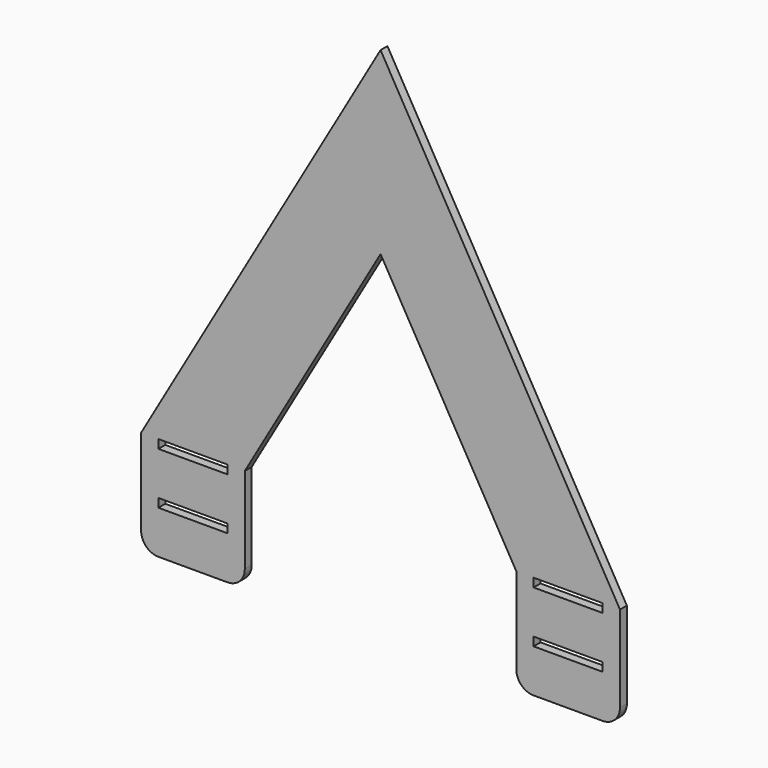
from build123d import *

# Parameters (mm, degrees)
F0_W     = 25.4
F0_H     = 3.175
F1_DEPTH = 3.175


with BuildPart() as f1:
    # F0 (on Front) → F1 (new body)
    with BuildSketch(Plane.XZ):
        with BuildLine():
            Line((-49.888181, -86.408864), (0, 0))
            Line((0, 0), (49.888181, -86.408864))
            Line((49.888181, -86.408864), (49.888181, -105.458864))
            Line((49.888181, -105.458864), (49.888181, -118.158864))
            ThreePointArc((49.888181, -118.158864), (51.748053, -122.648992), (56.238181, -124.508864))
            Line((56.238181, -124.508864), (81.638181, -124.508864))
            ThreePointArc((81.638181, -124.508864), (86.128309, -122.648992), (87.988181, -118.158864))
            Line((87.988181, -118.158864), (87.988181, -105.458864))
            Line((87.988181, -105.458864), (87.988181, -86.408864))
            Line((87.988181, -86.408864), (0, 65.991136))
            Line((0, 65.991136), (-87.988181, -86.408864))
            Line((-87.988181, -86.408864), (-87.988181, -105.458864))
            Line((-87.988181, -105.458864), (-87.988181, -118.158864))
            ThreePointArc((-87.988181, -118.158864), (-86.128309, -122.648992), (-81.638181, -124.508864))
            Line((-81.638181, -124.508864), (-56.238181, -124.508864))
            ThreePointArc((-56.238181, -124.508864), (-51.748053, -122.648992), (-49.888181, -118.158864))
            Line((-49.888181, -118.158864), (-49.888181, -105.458864))
            Line((-49.888181, -105.458864), (-49.888181, -86.408864))
        make_face()
        with Locations((-68.938181, -107.046364)):
            Rectangle(F0_W, F0_H, mode=Mode.SUBTRACT)
        with Locations((-68.938181, -87.996364)):
            Rectangle(F0_W, F0_H, mode=Mode.SUBTRACT)
        with Locations((68.938181, -107.046364)):
            Rectangle(F0_W, F0_H, mode=Mode.SUBTRACT)
        with Locations((68.938181, -87.996364)):
            Rectangle(F0_W, F0_H, mode=Mode.SUBTRACT)
    extrude(amount=F1_DEPTH)


solid = f1.part
